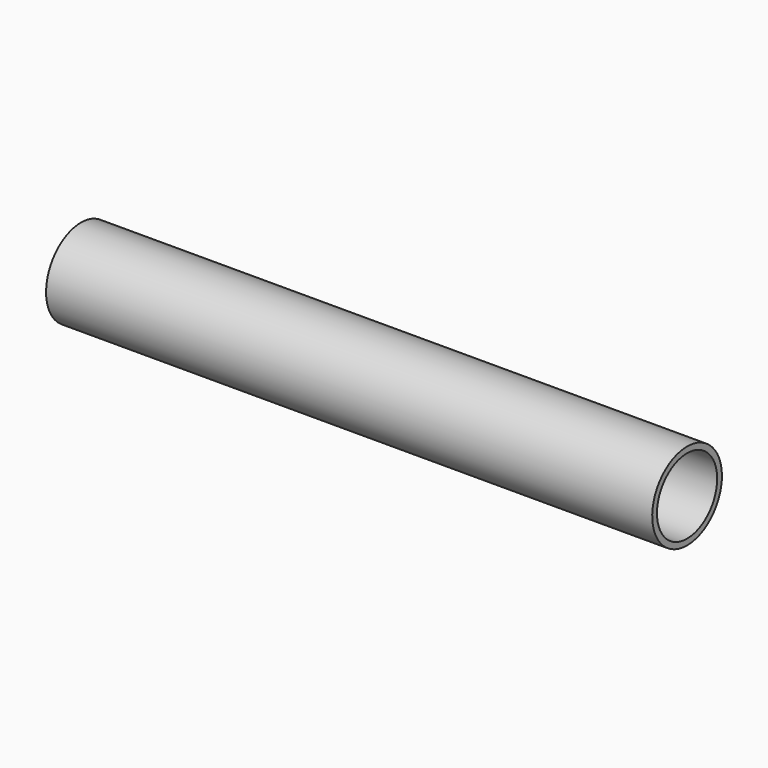
from build123d import *

# Parameters (mm, degrees)
CYLINDER002_R      = 9.5
CYLINDER002_DEPTH  = 153
CYLINDER003_R      = 11
CYLINDER003_DEPTH  = 153
CUT001_PITCH_ANGLE = 90


with BuildPart() as int001:
    # Cylinder002 → Cylinder002 (new body)
    with BuildSketch(Plane.XY.offset(2.5)):
        Circle(CYLINDER002_R)
    extrude(amount=CYLINDER002_DEPTH)


with BuildPart() as steeltube:
    # Cylinder003 → Cylinder003 (new body)
    with BuildSketch(Plane.XY.offset(2.5)):
        Circle(CYLINDER003_R)
    extrude(amount=CYLINDER003_DEPTH)

    # Cut001: cut INT001
    add(int001.part, mode=Mode.SUBTRACT)


with BuildPart() as steeltube_1:
    # Cut001 pitch: moved
    add(steeltube.part.rotate(Axis((0, 0, 0), (0, 1, 0)), CUT001_PITCH_ANGLE))


with BuildPart() as steeltube_2:
    # Cut001 placement: moved
    add(steeltube_1.part)


solid = steeltube_2.part
